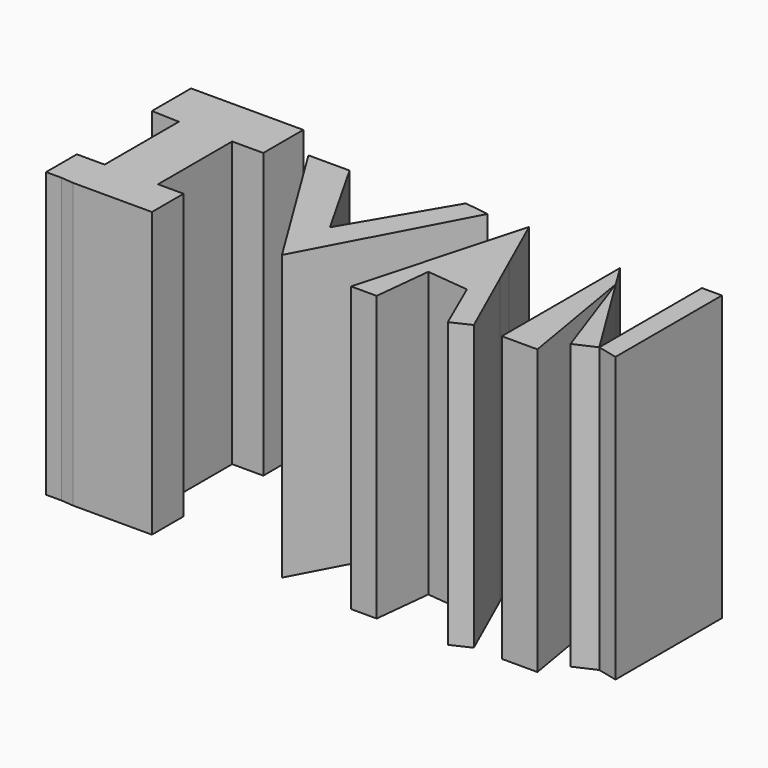
from build123d import *

# Parameters (mm, degrees)
F1_DEPTH = 25.4


with BuildPart() as f1:
    # F0 (on Top) → F1 (new body)
    with BuildSketch(Plane.XY):
        Polygon((-4.289746, 9.978659), (-7.966883, 9.978659), (0, -2.941008), (7.337954, 10.873098), (5.151548, 11.171243), (0, 2.425623), align=None)
        Polygon((14.12448, 3.76728), (8.778994, 3.76728), (6.741662, -3.636682), (9.027448, -3.636682), (9.568511, 1.464764), (13.335659, 1.065218), (15.387899, -3.636682), (17.077396, -2.841626), align=None)
        Polygon((-20.687785, 8.388546), (-18.203234, 8.289164), (-18.203234, 0), (-20.687785, 0), (-20.687785, -3.437918), (-19.296436, -3.437918), (-18.203234, -3.5373), (-13.432895, -3.5373), (-11.147108, -3.5373), (-11.147108, 0), (-13.432895, 0), (-13.432895, 8.289164), (-10.650198, 8.289164), (-10.650198, 12.761357), (-13.432895, 12.761357), (-18.203234, 12.761357), (-20.687785, 12.761357), align=None)
        Polygon((26.02178, 11.469389), (26.02178, 0), (27.810657, -0.426992), (27.810657, 11.469389), align=None)
        Polygon((20.959464, 8.179363), (19.66133, 10.276805), (19.66133, -2.941008), (22.841554, -2.941008), align=None)
        Polygon((26.02178, 0), (20.959464, 8.179363), (24.13352, -0.853985), align=None)
        Polygon((13.117711, 6.020525), (10.816326, 11.171243), (9.399015, 6.020525), align=None)
        Polygon((13.117711, 6.020525), (9.399015, 6.020525), (8.778994, 3.76728), (14.12448, 3.76728), align=None)
    extrude(amount=F1_DEPTH)


solid = f1.part
